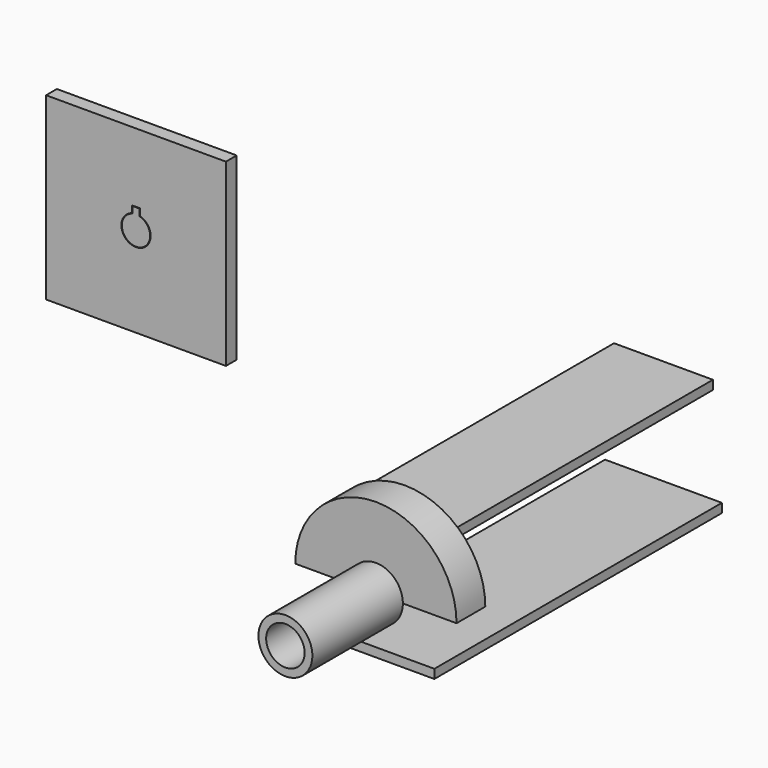
from build123d import *

# Parameters (mm, degrees)
F0_W          = 25.1666777024
F0_H          = 1.7222229476
F2_ANGLE_BACK = 90
F2_ANGLE      = 180
F3_DEPTH      = 13
F4_DEPTH      = 11
F5_W          = 40
F5_H          = 40
F6_DEPTH      = 3


with BuildPart() as f1:
    # F0 (on Right) → F1 (revolve)
    with BuildSketch(Plane.YZ):
        with Locations((-19.8599786063, 5.1388885262)):
            Rectangle(F0_W, F0_H)
    revolve(axis=Axis((0, 11.4922590109, 0), (0, 1, 0)))

    # F0 (on Right) → F2 (revolve)
    with BuildSketch(Plane.YZ, mode=Mode.PRIVATE) as f2_sk:
        Polygon((-7.2766397551, 6), (-7.2766397551, 4.2777770524), (-7.2766397551, 0), (0.7233642667, 0), (0.7233642667, 10.9218580239), (0.7233642667, 12.9218580239), (0.7233642667, 17.9325940357), (-7.2766397551, 17.9325940357), align=None)
    revolve(f2_sk.sketch.rotate(Axis((0, 11.4922590109, 0), (0, 1, 0)), -F2_ANGLE_BACK), axis=Axis((0, 11.4922590109, 0), (0, 1, 0)), revolution_arc=F2_ANGLE)

    # F0 (on Right) → F4 (join, symmetric)
    with BuildSketch(Plane.YZ):
        Polygon((0.7233642667, 12.9218580239), (0.7233642667, 10.9218580239), (10.225285776, 10.9218580239), (65.0394260883, 10.9218580239), (72.6717057781, 10.9218580239), (72.6717057781, 12.9218580239), align=None)
    extrude(amount=F4_DEPTH, both=True)


with BuildPart() as f3:
    # F0 (on Right) → F3 (new body, symmetric)
    with BuildSketch(Plane.YZ):
        Polygon((0.7233642667, -10.5227902532), (-7.2766397551, -10.5227902532), (-7.2766397551, -12.5227902532), (72.6717057781, -12.5227902532), (72.6717057781, -10.5227902532), (65.0394260883, -10.5227902532), (10.225285776, -10.5227902532), align=None)
    extrude(amount=F3_DEPTH, both=True)


with BuildPart() as f6:
    # F5 (on Front) → F6 (new body)
    with BuildSketch(Plane.XZ):
        with Locations((-56.7789445817, 50.8497212827)):
            Rectangle(F5_W, F5_H)
        with BuildLine():
            ThreePointArc((-55.9289445817, 53.986598711), (-56.7789445817, 47.5997212827), (-57.6289445817, 53.986598711))
            Line((-57.6289445817, 53.986598711), (-57.6289445817, 55.5091329909))
            Line((-57.6289445817, 55.5091329909), (-55.9289445817, 55.5091329909))
            Line((-55.9289445817, 55.5091329909), (-55.9289445817, 53.986598711))
        make_face(mode=Mode.SUBTRACT)
    extrude(amount=F6_DEPTH)


with BuildPart() as f6b:
    # F5 (on Front) → F6, piece 2 (new body)
    with BuildSketch(Plane.XZ):
        with BuildLine():
            Line((-57.5289445817, 55.4091329909), (-57.5289445817, 53.9091329909))
            ThreePointArc((-57.5289445817, 53.9091329909), (-56.7789445817, 47.6997212827), (-56.0289445817, 53.9091329909))
            Line((-56.0289445817, 53.9091329909), (-56.0289445817, 55.4091329909))
            Line((-56.0289445817, 55.4091329909), (-57.5289445817, 55.4091329909))
        make_face()
    extrude(amount=F6_DEPTH)


solid = Compound([f1.part, f3.part, f6.part, f6b.part])
